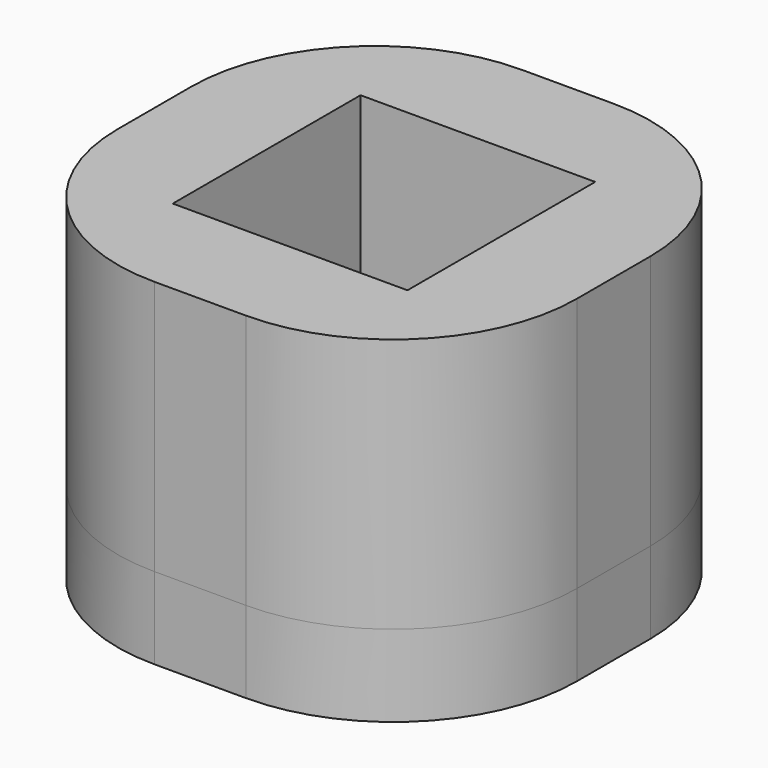
from build123d import *

# Parameters (mm, degrees)
F0_W     = 45
F0_H     = 45
F1_DEPTH = 3
F3_DEPTH = 25
F4_W     = 45
F4_H     = 45
F5_DEPTH = 5
F7_DEPTH = 25
F8_R     = 18
F9_DEPTH = 25


with BuildPart() as f1:
    # F0 (on Top) → F1 (new body)
    with BuildSketch(Plane.XY):
        Rectangle(F0_W, F0_H)
    extrude(amount=F1_DEPTH)

    # F2 (on face) → F3 (cut)
    with BuildSketch(Plane.XY.offset(3)):
        Polygon((11.5, 11.5), (-11.5, 11.5), (-11.5, 4), (-17.6846776158, 4), (-17.6846776158, -4), (-11.5, -4), (-11.5, -11.5), (11.5, -11.5), (11.5, -4), (17.6846776158, -4), (17.6846776158, 4), (11.5, 4), align=None)
    extrude(amount=-F3_DEPTH, mode=Mode.SUBTRACT)

    # F4 (on face) → F5 (join)
    with BuildSketch(Plane.XY.offset(3)):
        Rectangle(F4_W, F4_H)
    extrude(amount=F5_DEPTH)

    # F6 (on face) → F7 (cut)
    with BuildSketch(Plane(origin=(0, 0, 3), x_dir=(1, 0, 0), z_dir=(0, 0, -1))):
        Polygon((11.5, -11.5), (11.5, -4), (11.5, 4), (11.5, 11.5), (-11.5, 11.5), (-11.5, 4), (-11.5, -4), (-11.5, -11.5), align=None)
    extrude(amount=-F7_DEPTH, mode=Mode.SUBTRACT)

    # F8
    f8_edges = [f1.edges().sort_by_distance(p)[0] for p in [
        (-22.5, -22.5, 4),
        (22.5, -22.5, 4),
        (22.5, 22.5, 4),
        (-22.5, 22.5, 4),
    ]]
    fillet(f8_edges, radius=F8_R)

    # F9 (add): a face of the model
    f9_faces = [f1.faces().sort_by_distance(p)[0] for p in [
        (0, 21.8636038969, 8),
    ]]
    extrude(f9_faces, amount=F9_DEPTH)


solid = f1.part
